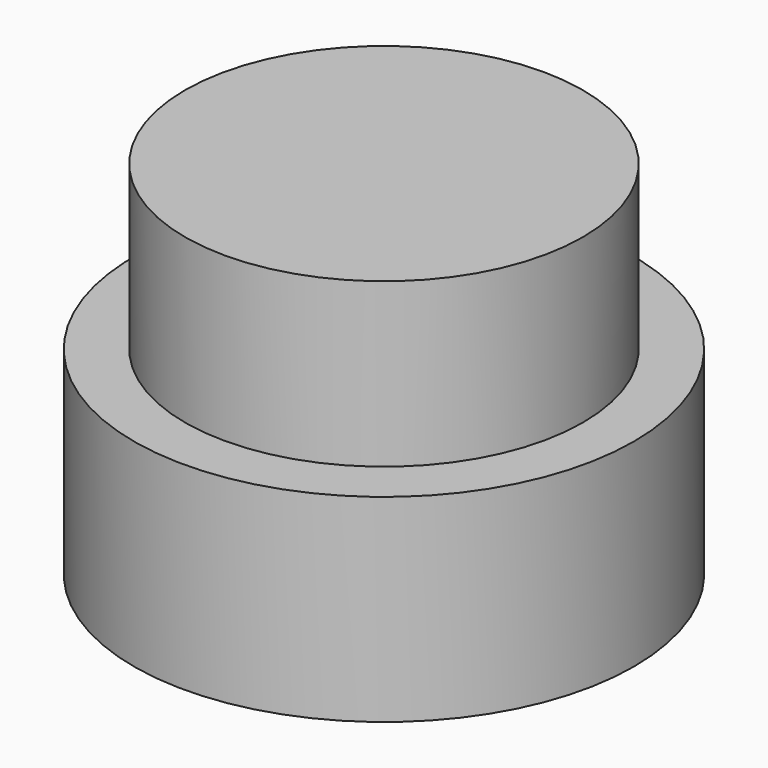
from build123d import *

# Parameters (mm, degrees)
F0_R     = 68.684113
F1_DEPTH = 54.431807
F2_R     = 54.647613
F3_DEPTH = 99.272676


with BuildPart() as f1:
    # F0 (on Top) → F1 (new body)
    with BuildSketch(Plane.XY):
        Circle(F0_R)
    extrude(amount=F1_DEPTH)

    # F2 (on face) → F3 (join)
    with BuildSketch(Plane.XY):
        Circle(F2_R)
    extrude(amount=F3_DEPTH)


solid = f1.part
